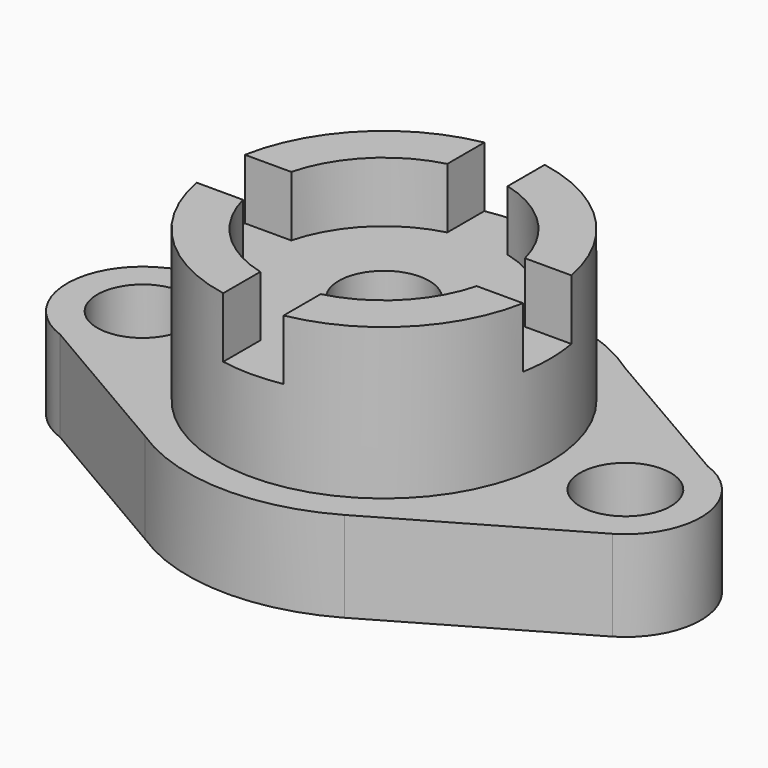
from build123d import *

# Parameters (mm, degrees)
F6_DEPTH  = 19.05
F1_R      = 15.875
F0_R      = 41.275
F8_R      = 34.925
F9_DEPTH  = 31.75
F10_R     = 25.4
F11_DEPTH = 12.7
F12_R     = 9.525
F13_DEPTH = 50.8
F15_DEPTH = 12.7
F16_R     = 9.525
F17_DEPTH = 25.4


with BuildPart() as f6:
    # F2 (on Top) → F6 (new body)
    with BuildSketch(Plane.XY):
        Polygon((-20.5864672744, 35.7746137668), (-60.1274476785, 12.8457909373), (-27.6046618819, 7.8555336222), align=None)
    extrude(amount=F6_DEPTH)


with BuildPart() as f6b:
    # F1 (on Top) → F6, piece 2 (new body)
    with BuildSketch(Plane.XY):
        with Locations((-50.8, 0)):
            Circle(F1_R)
    extrude(amount=F6_DEPTH)


with BuildPart() as f6c:
    # F1 (on Top) → F6, piece 3 (new body)
    with BuildSketch(Plane.XY):
        with Locations((50.8, 0)):
            Circle(F1_R)
    extrude(amount=F6_DEPTH)


with BuildPart() as f6d:
    # F0 (on Top) → F6, piece 4 (new body)
    with BuildSketch(Plane.XY):
        Circle(F0_R)
    extrude(amount=F6_DEPTH)


with BuildPart() as f6e:
    # F3 (on Top) → F6, piece 5 (new body)
    with BuildSketch(Plane.XY):
        Polygon((-30.2489809692, -6.1483276077), (-60.227651149, -12.5827733427), (-21.6209739447, -35.1033322513), align=None)
    extrude(amount=F6_DEPTH)


with BuildPart() as f6f:
    # F4 (on Top) → F6, piece 6 (new body)
    with BuildSketch(Plane.XY):
        Polygon((58.4153184481, 13.6340273871), (17.3395914771, 37.4561636104), (25.2016615123, 3.7444084883), align=None)
    extrude(amount=F6_DEPTH)


with BuildPart() as f6g:
    # F5 (on Top) → F6, piece 7 (new body)
    with BuildSketch(Plane.XY):
        Polygon((28.4536294639, -4.6330923215), (20.3704475493, -35.8993813455), (59.0077042557, -13.5921507853), align=None)
    extrude(amount=F6_DEPTH)


with BuildPart() as f6_1:
    add(f6.part)

    # F7: union F6d, F6e, F6g, F6f, F6c, F6b
    add(f6d.part)
    add(f6e.part)
    add(f6g.part)
    add(f6f.part)
    add(f6c.part)
    add(f6b.part)

    # F8 (on face) → F9 (join)
    with BuildSketch(Plane.XY.offset(19.05)):
        Circle(F8_R)
    extrude(amount=F9_DEPTH)

    # F10 (on face) → F11 (cut)
    with BuildSketch(Plane.XY.offset(50.8)):
        Circle(F10_R)
    extrude(amount=-F11_DEPTH, mode=Mode.SUBTRACT)

    # F12 (on face) → F13 (cut)
    with BuildSketch(Plane.XY.offset(38.1)):
        Circle(F12_R)
    extrude(amount=-F13_DEPTH, mode=Mode.SUBTRACT)

    # F14 (on face) → F15 (cut)
    with BuildSketch(Plane.XY.offset(50.8)):
        with BuildLine():
            Line((-34.3428758988, -6.35), (-24.5934442484, -6.35))
            ThreePointArc((-24.5934442484, -6.35), (-25.4, 0), (-24.5934442484, 6.35))
            Line((-24.5934442484, 6.35), (-34.3428758988, 6.35))
            ThreePointArc((-34.3428758988, 6.35), (-34.925, 0), (-34.3428758988, -6.35))
        make_face()
        with BuildLine():
            Line((-6.35, 34.3428758988), (-6.35, 24.5934442484))
            ThreePointArc((-6.35, 24.5934442484), (0, 25.4), (6.35, 24.5934442484))
            Line((6.35, 24.5934442484), (6.35, 34.3428758988))
            ThreePointArc((6.35, 34.3428758988), (0, 34.925), (-6.35, 34.3428758988))
        make_face()
        with BuildLine():
            ThreePointArc((25.4, 0), (25.1975542852, -3.2005090291), (24.5934442484, -6.35))
            Line((24.5934442484, -6.35), (34.3428758988, -6.35))
            ThreePointArc((34.3428758988, -6.35), (34.7791644937, -3.1883133656), (34.925, 0))
            ThreePointArc((34.925, 0), (34.7791644937, 3.1883133656), (34.3428758988, 6.35))
            Line((34.3428758988, 6.35), (24.5934442484, 6.35))
            ThreePointArc((24.5934442484, 6.35), (25.1975542852, 3.2005090291), (25.4, 0))
        make_face()
        with BuildLine():
            ThreePointArc((6.35, -24.5934442484), (0, -25.4), (-6.35, -24.5934442484))
            Line((-6.35, -24.5934442484), (-6.35, -34.3428758988))
            ThreePointArc((-6.35, -34.3428758988), (0, -34.925), (6.35, -34.3428758988))
            Line((6.35, -34.3428758988), (6.35, -24.5934442484))
        make_face()
    extrude(amount=-F15_DEPTH, mode=Mode.SUBTRACT)

    # F16 (on face) → F17 (cut)
    with BuildSketch(Plane.XY.offset(19.05)):
        with Locations((-50.8, 0)):
            Circle(F16_R)
        with Locations((50.8, 0)):
            Circle(F16_R)
    extrude(amount=-F17_DEPTH, mode=Mode.SUBTRACT)


solid = f6_1.part
